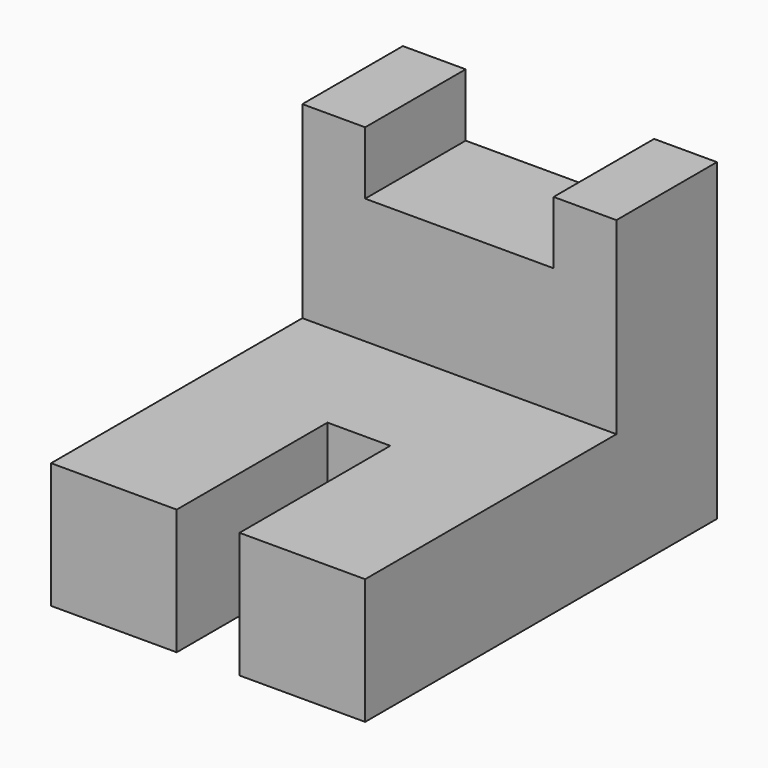
from build123d import *

# Parameters (mm, degrees)
F1_DEPTH = 63.5
F2_W     = 12.7
F2_H     = 25.4
F3_DEPTH = 38.1
F4_W     = 38.1
F4_H     = 25.4
F5_DEPTH = 12.7


with BuildPart() as f1:
    # F0 (on Right) → F1 (new body)
    with BuildSketch(Plane.YZ):
        Polygon((7.178139, 10.725695), (-56.321861, 10.725695), (-56.321861, -14.674305), (32.578139, -14.674305), (32.578139, 48.825695), (7.178139, 48.825695), align=None)
    extrude(amount=F1_DEPTH)

    # F2 (on face) → F3 (cut)
    with BuildSketch(Plane.XZ.offset(56.321861)):
        with Locations((31.75, -1.974305)):
            Rectangle(F2_W, F2_H)
    extrude(amount=-F3_DEPTH, mode=Mode.SUBTRACT)

    # F4 (on face) → F5 (cut)
    with BuildSketch(Plane.XY.offset(48.825695)):
        with Locations((31.75, 19.878139)):
            Rectangle(F4_W, F4_H)
    extrude(amount=-F5_DEPTH, mode=Mode.SUBTRACT)


solid = f1.part
